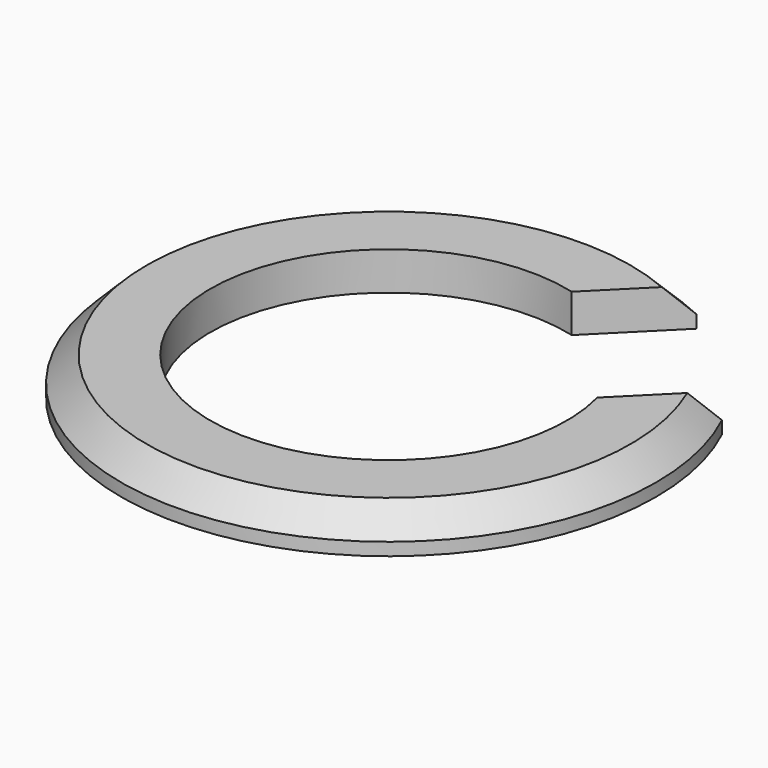
from build123d import *

# Parameters (mm, degrees)
PAD_DEPTH    = 1.5
CHAMFER_SIZE = 1


with BuildPart() as part:
    # Sketch → Pad (new body)
    with BuildSketch(Plane.XY):
        with BuildLine():
            ThreePointArc((1.772002, 6.772002), (-4.949747, -4.949747), (6.772002, 1.772002))
            Line((6.772002, 1.772002), (9.491066, 4.491066))
            ThreePointArc((4.491066, 9.491066), (-7.424621, -7.424621), (9.491066, 4.491066))
            Line((1.772002, 6.772002), (4.491066, 9.491066))
        make_face()
    extrude(amount=PAD_DEPTH)

    # Chamfer
    chamfer_edges = [part.edges().sort_by_distance(p)[0] for p in [
        (-7.424621, -7.424621, 1.5),
    ]]
    chamfer(chamfer_edges, length=CHAMFER_SIZE)


solid = part.part
